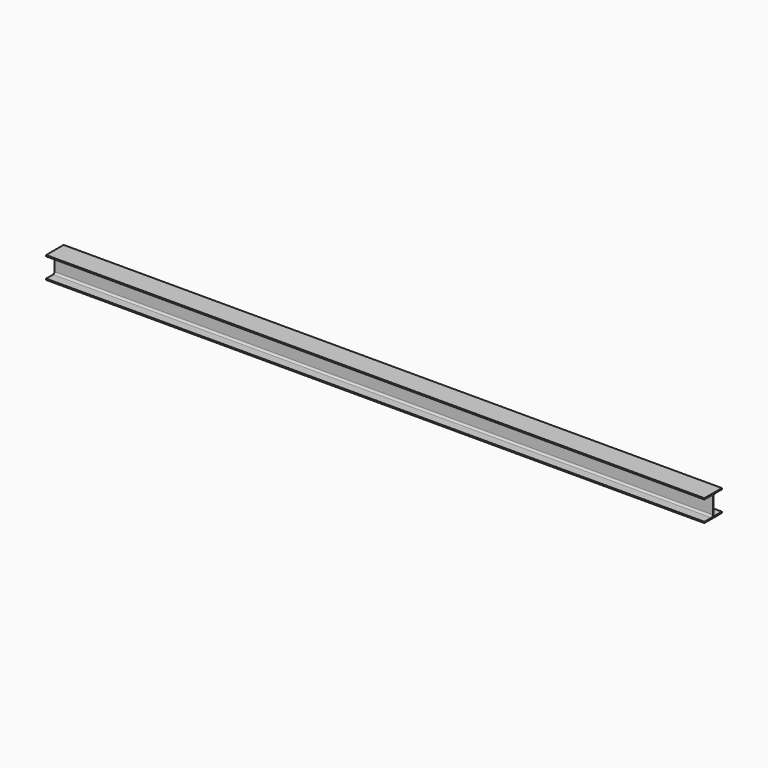
from build123d import *

# Parameters (mm, degrees)
F1_DEPTH = 6096


with BuildPart() as f1:
    # F0 (on Right) → F1 (new body)
    with BuildSketch(Plane.YZ):
        with BuildLine():
            Line((-3.6, 73.6092), (-3.6, 0))
            Line((-3.6, 0), (-3.6, -73.6092))
            ThreePointArc((-3.6, -73.6092), (-8.577017, -85.624783), (-20.5926, -90.6018))
            Line((-20.5926, -90.6018), (-101.6, -90.6018))
            Line((-101.6, -90.6018), (-101.6, -101.6))
            Line((-101.6, -101.6), (0, -101.6))
            Line((0, -101.6), (101.6, -101.6))
            Line((101.6, -101.6), (101.6, -90.6018))
            Line((101.6, -90.6018), (20.5926, -90.6018))
            ThreePointArc((20.5926, -90.6018), (8.577017, -85.624783), (3.6, -73.6092))
            Line((3.6, -73.6092), (3.6, 0))
            Line((3.6, 0), (3.6, 73.6092))
            ThreePointArc((3.6, 73.6092), (8.577017, 85.624783), (20.5926, 90.6018))
            Line((20.5926, 90.6018), (101.6, 90.6018))
            Line((101.6, 90.6018), (101.6, 101.6))
            Line((101.6, 101.6), (0, 101.6))
            Line((0, 101.6), (-101.6, 101.6))
            Line((-101.6, 101.6), (-101.6, 90.6018))
            Line((-101.6, 90.6018), (-20.5926, 90.6018))
            ThreePointArc((-20.5926, 90.6018), (-8.577017, 85.624783), (-3.6, 73.6092))
        make_face()
    extrude(amount=-F1_DEPTH)


solid = f1.part
